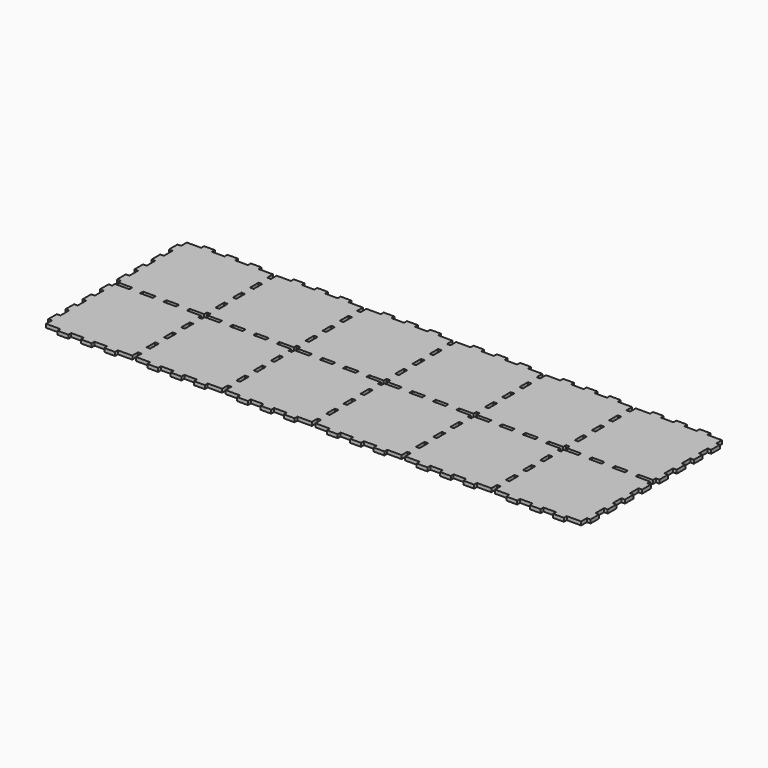
from build123d import *

# Parameters (mm, degrees)
F0_W     = 479.425
F0_H     = 161.925
F1_DEPTH = 3.175
F2_W     = 3.175
F2_H     = 9.525
F3_DEPTH = 3.176
F4_W     = 12.7
F4_H     = 3.175
F4_W_2   = 11.1125
F5_DEPTH = 3.176


with BuildPart() as f1:
    # F0 (on Top) → F1 (new body)
    with BuildSketch(Plane.XY):
        Rectangle(F0_W, F0_H)
    extrude(amount=F1_DEPTH)

    # F2 (on face) → F3 (cut, through all)
    with BuildSketch(Plane.XY.offset(3.175)):
        with Locations((-238.125, 76.2)):
            Rectangle(F2_W, F2_H)
        with Locations((-238.125, 57.15)):
            Rectangle(F2_W, F2_H)
        with Locations((-238.125, 38.1)):
            Rectangle(F2_W, F2_H)
        with Locations((-238.125, 19.05)):
            Rectangle(F2_W, F2_H)
        with Locations((-238.125, 0)):
            Rectangle(F2_W, F2_H)
        with Locations((-238.125, -19.05)):
            Rectangle(F2_W, F2_H)
        with Locations((-238.125, -38.1)):
            Rectangle(F2_W, F2_H)
        with Locations((-238.125, -57.15)):
            Rectangle(F2_W, F2_H)
        with Locations((-238.125, -76.2)):
            Rectangle(F2_W, F2_H)
        with Locations((-158.75, -19.05)):
            Rectangle(F2_W, F2_H)
        with Locations((-158.75, -38.1)):
            Rectangle(F2_W, F2_H)
        with Locations((-158.75, -57.15)):
            Rectangle(F2_W, F2_H)
        with Locations((-158.75, -76.2)):
            Rectangle(F2_W, F2_H)
        with Locations((-158.75, 0)):
            Rectangle(F2_W, F2_H)
        with Locations((-158.75, 19.05)):
            Rectangle(F2_W, F2_H)
        with Locations((-158.75, 76.2)):
            Rectangle(F2_W, F2_H)
        with Locations((-158.75, 57.15)):
            Rectangle(F2_W, F2_H)
        with Locations((-158.75, 38.1)):
            Rectangle(F2_W, F2_H)
        with Locations((-79.375, -19.05)):
            Rectangle(F2_W, F2_H)
        with Locations((-79.375, -38.1)):
            Rectangle(F2_W, F2_H)
        with Locations((-79.375, -57.15)):
            Rectangle(F2_W, F2_H)
        with Locations((-79.375, -76.2)):
            Rectangle(F2_W, F2_H)
        with Locations((-79.375, 0)):
            Rectangle(F2_W, F2_H)
        with Locations((-79.375, 19.05)):
            Rectangle(F2_W, F2_H)
        with Locations((-79.375, 76.2)):
            Rectangle(F2_W, F2_H)
        with Locations((-79.375, 57.15)):
            Rectangle(F2_W, F2_H)
        with Locations((-79.375, 38.1)):
            Rectangle(F2_W, F2_H)
        with Locations((0, -19.05)):
            Rectangle(F2_W, F2_H)
        with Locations((0, -38.1)):
            Rectangle(F2_W, F2_H)
        with Locations((0, -57.15)):
            Rectangle(F2_W, F2_H)
        with Locations((0, -76.2)):
            Rectangle(F2_W, F2_H)
        Rectangle(F2_W, F2_H)
        with Locations((0, 19.05)):
            Rectangle(F2_W, F2_H)
        with Locations((0, 76.2)):
            Rectangle(F2_W, F2_H)
        with Locations((0, 57.15)):
            Rectangle(F2_W, F2_H)
        with Locations((0, 38.1)):
            Rectangle(F2_W, F2_H)
        with Locations((79.375, -19.05)):
            Rectangle(F2_W, F2_H)
        with Locations((79.375, -38.1)):
            Rectangle(F2_W, F2_H)
        with Locations((79.375, -57.15)):
            Rectangle(F2_W, F2_H)
        with Locations((79.375, -76.2)):
            Rectangle(F2_W, F2_H)
        with Locations((79.375, 0)):
            Rectangle(F2_W, F2_H)
        with Locations((79.375, 19.05)):
            Rectangle(F2_W, F2_H)
        with Locations((79.375, 76.2)):
            Rectangle(F2_W, F2_H)
        with Locations((79.375, 57.15)):
            Rectangle(F2_W, F2_H)
        with Locations((79.375, 38.1)):
            Rectangle(F2_W, F2_H)
        with Locations((158.75, -19.05)):
            Rectangle(F2_W, F2_H)
        with Locations((158.75, -38.1)):
            Rectangle(F2_W, F2_H)
        with Locations((158.75, -57.15)):
            Rectangle(F2_W, F2_H)
        with Locations((158.75, -76.2)):
            Rectangle(F2_W, F2_H)
        with Locations((158.75, 0)):
            Rectangle(F2_W, F2_H)
        with Locations((158.75, 19.05)):
            Rectangle(F2_W, F2_H)
        with Locations((158.75, 76.2)):
            Rectangle(F2_W, F2_H)
        with Locations((158.75, 57.15)):
            Rectangle(F2_W, F2_H)
        with Locations((158.75, 38.1)):
            Rectangle(F2_W, F2_H)
        with Locations((238.125, -19.05)):
            Rectangle(F2_W, F2_H)
        with Locations((238.125, -38.1)):
            Rectangle(F2_W, F2_H)
        with Locations((238.125, -57.15)):
            Rectangle(F2_W, F2_H)
        with Locations((238.125, -76.2)):
            Rectangle(F2_W, F2_H)
        with Locations((238.125, 0)):
            Rectangle(F2_W, F2_H)
        with Locations((238.125, 19.05)):
            Rectangle(F2_W, F2_H)
        with Locations((238.125, 76.2)):
            Rectangle(F2_W, F2_H)
        with Locations((238.125, 57.15)):
            Rectangle(F2_W, F2_H)
        with Locations((238.125, 38.1)):
            Rectangle(F2_W, F2_H)
    extrude(amount=-F3_DEPTH, mode=Mode.SUBTRACT)

    # F4 (on face) → F5 (cut, through all)
    with BuildSketch(Plane.XY.offset(3.175)):
        with Locations((-230.1875, 79.375)):
            Rectangle(F4_W, F4_H)
        with Locations((-208.75625, 79.375)):
            Rectangle(F4_W_2, F4_H)
        with Locations((-188.11875, 79.375)):
            Rectangle(F4_W_2, F4_H)
        with Locations((-166.6875, 79.375)):
            Rectangle(F4_W, F4_H)
        with Locations((-208.75625, 0)):
            Rectangle(F4_W_2, F4_H)
        with Locations((-188.11875, 0)):
            Rectangle(F4_W_2, F4_H)
        with Locations((-166.6875, 0)):
            Rectangle(F4_W, F4_H)
        with Locations((-230.1875, 0)):
            Rectangle(F4_W, F4_H)
        with Locations((-208.75625, -79.375)):
            Rectangle(F4_W_2, F4_H)
        with Locations((-188.11875, -79.375)):
            Rectangle(F4_W_2, F4_H)
        with Locations((-166.6875, -79.375)):
            Rectangle(F4_W, F4_H)
        with Locations((-230.1875, -79.375)):
            Rectangle(F4_W, F4_H)
        with Locations((-129.38125, 79.375)):
            Rectangle(F4_W_2, F4_H)
        with Locations((-108.74375, 79.375)):
            Rectangle(F4_W_2, F4_H)
        with Locations((-87.3125, 79.375)):
            Rectangle(F4_W, F4_H)
        with Locations((-150.8125, 79.375)):
            Rectangle(F4_W, F4_H)
        with Locations((-129.38125, 0)):
            Rectangle(F4_W_2, F4_H)
        with Locations((-108.74375, 0)):
            Rectangle(F4_W_2, F4_H)
        with Locations((-87.3125, 0)):
            Rectangle(F4_W, F4_H)
        with Locations((-150.8125, 0)):
            Rectangle(F4_W, F4_H)
        with Locations((-129.38125, -79.375)):
            Rectangle(F4_W_2, F4_H)
        with Locations((-108.74375, -79.375)):
            Rectangle(F4_W_2, F4_H)
        with Locations((-87.3125, -79.375)):
            Rectangle(F4_W, F4_H)
        with Locations((-150.8125, -79.375)):
            Rectangle(F4_W, F4_H)
        with Locations((-50.00625, 79.375)):
            Rectangle(F4_W_2, F4_H)
        with Locations((-29.36875, 79.375)):
            Rectangle(F4_W_2, F4_H)
        with Locations((-7.9375, 79.375)):
            Rectangle(F4_W, F4_H)
        with Locations((-71.4375, 79.375)):
            Rectangle(F4_W, F4_H)
        with Locations((-50.00625, 0)):
            Rectangle(F4_W_2, F4_H)
        with Locations((-29.36875, 0)):
            Rectangle(F4_W_2, F4_H)
        with Locations((-7.9375, 0)):
            Rectangle(F4_W, F4_H)
        with Locations((-71.4375, 0)):
            Rectangle(F4_W, F4_H)
        with Locations((-50.00625, -79.375)):
            Rectangle(F4_W_2, F4_H)
        with Locations((-29.36875, -79.375)):
            Rectangle(F4_W_2, F4_H)
        with Locations((-7.9375, -79.375)):
            Rectangle(F4_W, F4_H)
        with Locations((-71.4375, -79.375)):
            Rectangle(F4_W, F4_H)
        with Locations((29.36875, 79.375)):
            Rectangle(F4_W_2, F4_H)
        with Locations((50.00625, 79.375)):
            Rectangle(F4_W_2, F4_H)
        with Locations((71.4375, 79.375)):
            Rectangle(F4_W, F4_H)
        with Locations((7.9375, 79.375)):
            Rectangle(F4_W, F4_H)
        with Locations((29.36875, 0)):
            Rectangle(F4_W_2, F4_H)
        with Locations((50.00625, 0)):
            Rectangle(F4_W_2, F4_H)
        with Locations((71.4375, 0)):
            Rectangle(F4_W, F4_H)
        with Locations((7.9375, 0)):
            Rectangle(F4_W, F4_H)
        with Locations((29.36875, -79.375)):
            Rectangle(F4_W_2, F4_H)
        with Locations((50.00625, -79.375)):
            Rectangle(F4_W_2, F4_H)
        with Locations((71.4375, -79.375)):
            Rectangle(F4_W, F4_H)
        with Locations((7.9375, -79.375)):
            Rectangle(F4_W, F4_H)
        with Locations((108.74375, 79.375)):
            Rectangle(F4_W_2, F4_H)
        with Locations((129.38125, 79.375)):
            Rectangle(F4_W_2, F4_H)
        with Locations((150.8125, 79.375)):
            Rectangle(F4_W, F4_H)
        with Locations((87.3125, 79.375)):
            Rectangle(F4_W, F4_H)
        with Locations((108.74375, 0)):
            Rectangle(F4_W_2, F4_H)
        with Locations((129.38125, 0)):
            Rectangle(F4_W_2, F4_H)
        with Locations((150.8125, 0)):
            Rectangle(F4_W, F4_H)
        with Locations((87.3125, 0)):
            Rectangle(F4_W, F4_H)
        with Locations((108.74375, -79.375)):
            Rectangle(F4_W_2, F4_H)
        with Locations((129.38125, -79.375)):
            Rectangle(F4_W_2, F4_H)
        with Locations((150.8125, -79.375)):
            Rectangle(F4_W, F4_H)
        with Locations((87.3125, -79.375)):
            Rectangle(F4_W, F4_H)
        with Locations((188.11875, 79.375)):
            Rectangle(F4_W_2, F4_H)
        with Locations((208.75625, 79.375)):
            Rectangle(F4_W_2, F4_H)
        with Locations((230.1875, 79.375)):
            Rectangle(F4_W, F4_H)
        with Locations((166.6875, 79.375)):
            Rectangle(F4_W, F4_H)
        with Locations((188.11875, 0)):
            Rectangle(F4_W_2, F4_H)
        with Locations((208.75625, 0)):
            Rectangle(F4_W_2, F4_H)
        with Locations((230.1875, 0)):
            Rectangle(F4_W, F4_H)
        with Locations((166.6875, 0)):
            Rectangle(F4_W, F4_H)
        with Locations((188.11875, -79.375)):
            Rectangle(F4_W_2, F4_H)
        with Locations((208.75625, -79.375)):
            Rectangle(F4_W_2, F4_H)
        with Locations((230.1875, -79.375)):
            Rectangle(F4_W, F4_H)
        with Locations((166.6875, -79.375)):
            Rectangle(F4_W, F4_H)
    extrude(amount=-F5_DEPTH, mode=Mode.SUBTRACT)


solid = f1.part
